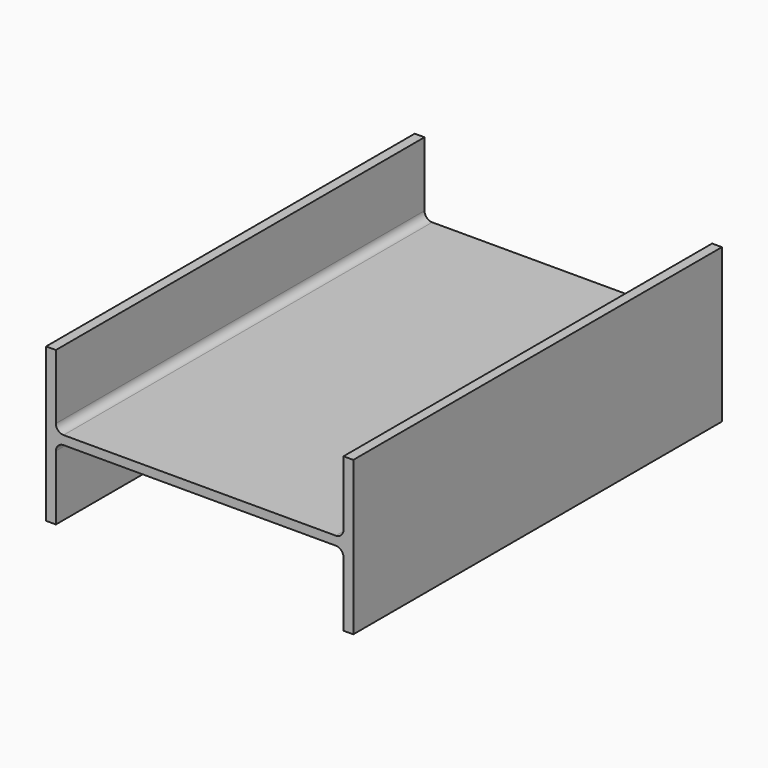
from build123d import *

# Parameters (mm, degrees)
F1_DEPTH = 152.4
F2_R     = 5.08


with BuildPart() as f1:
    # F0 (on Front) → F1 (new body, symmetric)
    with BuildSketch(Plane.XZ):
        Polygon((95.123, -50.8), (101.6, -50.8), (101.6, 50.8), (95.123, 50.8), (95.123, 2.921), (-95.123, 2.921), (-95.123, 50.8), (-101.6, 50.8), (-101.6, -50.8), (-95.123, -50.8), (-95.123, -2.921), (95.123, -2.921), align=None)
    extrude(amount=F1_DEPTH, both=True)

    # F2
    f2_edges = [f1.edges().sort_by_distance(p)[0] for p in [
        (-95.123, 0, 2.921),
        (-95.123, 0, -2.921),
        (95.123, 0, -2.921),
        (95.123, 0, 2.921),
    ]]
    fillet(f2_edges, radius=F2_R)


solid = f1.part
